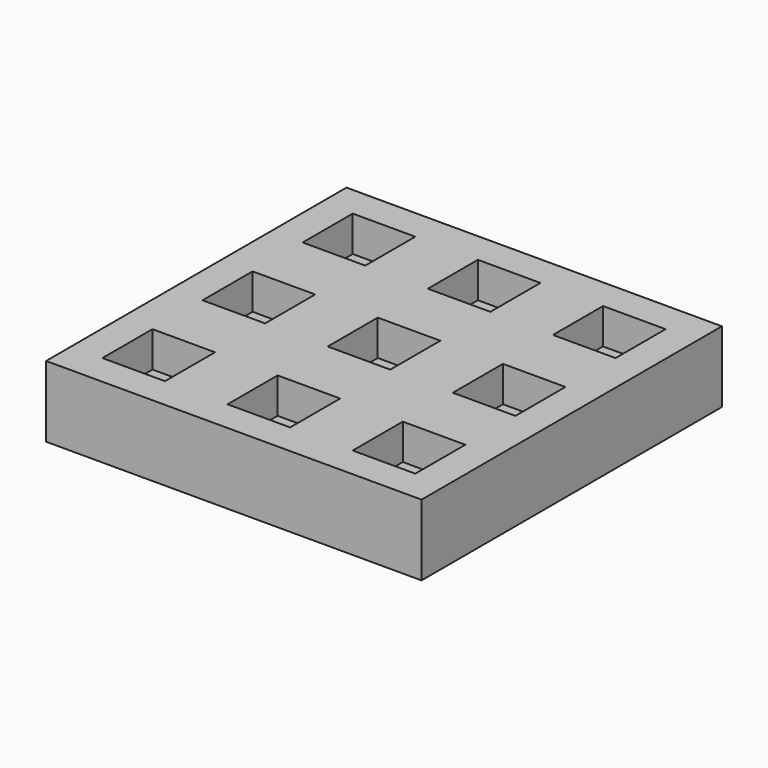
from build123d import *

# Parameters (mm, degrees)
F0_W     = 44
F0_H     = 44
F1_DEPTH = 25
F0_W_2   = 264
F0_H_2   = 264
F4_DEPTH = 50


with BuildPart() as f1:
    # F0 (on Top) → F1 (new body)
    with BuildSketch(Plane.XY):
        with Locations((-88, 0)):
            Rectangle(F0_W, F0_H)
        with Locations((-88, 88)):
            Rectangle(F0_W, F0_H)
        with Locations((0, 88)):
            Rectangle(F0_W, F0_H)
        Rectangle(F0_W, F0_H)
    extrude(amount=-F1_DEPTH)


with BuildPart() as f2_1:
    # F2: instance of F1
    add(f1.part.mirror(Plane.YZ))


with BuildPart() as f3_1:
    # F3: instance of F1
    add(f1.part.mirror(Plane.XZ))


with BuildPart() as f3_2:
    # F3: instance of F2_1
    add(f2_1.part.mirror(Plane.XZ))


with BuildPart() as f4:
    # F0 (on Top) → F4 (new body)
    with BuildSketch(Plane.XY):
        Rectangle(F0_W_2, F0_H_2)
        with Locations((-88, 0)):
            Rectangle(F0_W, F0_H, mode=Mode.SUBTRACT)
        with Locations((-88, 88)):
            Rectangle(F0_W, F0_H, mode=Mode.SUBTRACT)
        Rectangle(F0_W, F0_H, mode=Mode.SUBTRACT)
        with Locations((0, 88)):
            Rectangle(F0_W, F0_H, mode=Mode.SUBTRACT)
        with Locations((-88, 0)):
            Rectangle(F0_W, F0_H)
        Rectangle(F0_W, F0_H)
        with Locations((-88, 88)):
            Rectangle(F0_W, F0_H)
        with Locations((0, 88)):
            Rectangle(F0_W, F0_H)
    extrude(amount=-F4_DEPTH)

    # F5: cut F1, F2_1, F3_1, F3_2
    add(f1.part, mode=Mode.SUBTRACT)
    add(f2_1.part, mode=Mode.SUBTRACT)
    add(f3_1.part, mode=Mode.SUBTRACT)
    add(f3_2.part, mode=Mode.SUBTRACT)


solid = f4.part
